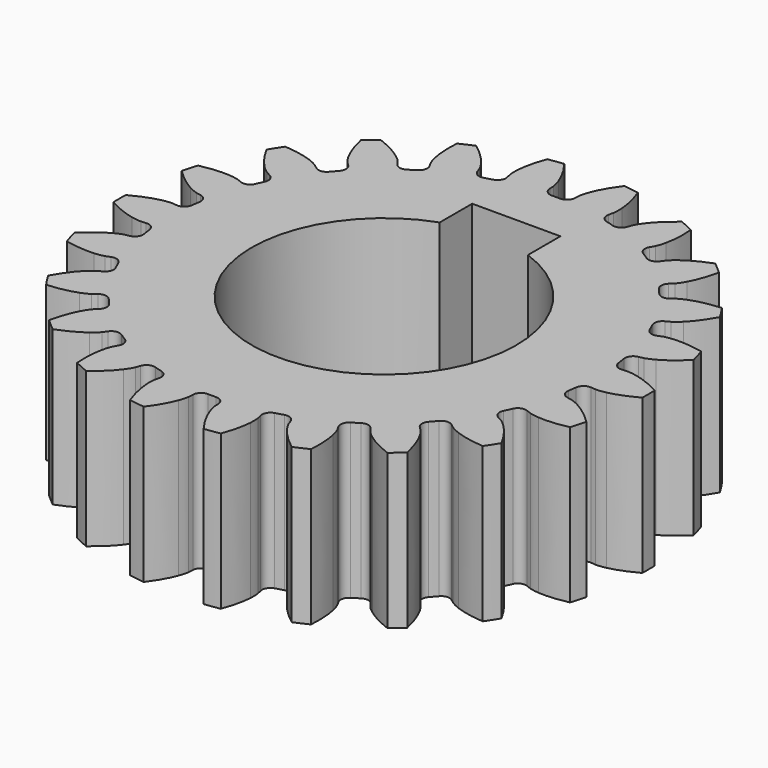
from build123d import *

# Parameters (mm, degrees)
PAD_DEPTH    = 7
POCKET_DEPTH = 7.001


with BuildPart() as part:
    # InvoluteGear → Pad (new body)
    with BuildSketch(Plane.XY):
        with BuildLine():
            Line((10.092297, -0.873177), (10.316634, -0.891835))
            add(Edge.make_bspline(
                [(10.316634, -0.891835), (10.365434, -0.893141), (10.512378, -0.891291), (10.757361, -0.838819)],
                knots=[0, 0, 0, 0, 1, 1, 1, 1], degree=3))
            add(Edge.make_bspline(
                [(10.757361, -0.838819), (11.050603, -0.775122), (11.473238, -0.639484), (11.995886, -0.352564)],
                knots=[0, 0, 0, 0, 1, 1, 1, 1], degree=3))
            ThreePointArc((11.995886, -0.352564), (12.000533, 0.000205), (11.994808, 0.352959))
            add(Edge.make_bspline(
                [(11.994808, 0.352959), (11.473238, 0.639484), (11.050603, 0.775122), (10.757361, 0.838819)],
                knots=[0, 0, 0, 0, 1, 1, 1, 1], degree=3))
            add(Edge.make_bspline(
                [(10.757361, 0.838819), (10.512378, 0.891291), (10.365434, 0.893141), (10.316634, 0.891835)],
                knots=[0, 0, 0, 0, 1, 1, 1, 1], degree=3))
            Line((10.316634, 0.891835), (10.092297, 0.873177))
            ThreePointArc((10.092297, 0.873177), (9.816263, 0.953396), (9.67538, 1.203959))
            ThreePointArc((9.67538, 1.203959), (9.650759, 1.38757), (9.622654, 1.570679))
            ThreePointArc((9.622654, 1.570679), (9.687238, 1.850784), (9.929491, 2.005522))
            Line((9.929491, 2.005522), (10.149997, 2.050822))
            add(Edge.make_bspline(
                [(10.149997, 2.050822), (10.197188, 2.063318), (10.337659, 2.106492), (10.557935, 2.225858)],
                knots=[0, 0, 0, 0, 1, 1, 1, 1], degree=3))
            add(Edge.make_bspline(
                [(10.557935, 2.225858), (10.821353, 2.369591), (11.188655, 2.618804), (11.609297, 3.041349)],
                knots=[0, 0, 0, 0, 1, 1, 1, 1], degree=3))
            ThreePointArc((11.609297, 3.041349), (11.514369, 3.381138), (11.409494, 3.71799))
            add(Edge.make_bspline(
                [(11.409494, 3.71799), (10.828328, 3.845965), (10.384599, 3.857039), (10.085289, 3.83554)],
                knots=[0, 0, 0, 0, 1, 1, 1, 1], degree=3))
            add(Edge.make_bspline(
                [(10.085289, 3.83554), (9.835447, 3.816867), (9.693934, 3.777242), (9.647479, 3.762241)],
                knots=[0, 0, 0, 0, 1, 1, 1, 1], degree=3))
            Line((9.647479, 3.762241), (9.437486, 3.681136))
            ThreePointArc((9.437486, 3.681136), (9.150033, 3.680337), (8.944265, 3.88106))
            ThreePointArc((8.944265, 3.88106), (8.868912, 4.050296), (8.790357, 4.218071))
            ThreePointArc((8.790357, 4.218071), (8.77341, 4.505025), (8.962256, 4.721745))
            Line((8.962256, 4.721745), (9.161067, 4.827334))
            add(Edge.make_bspline(
                [(9.161067, 4.827334), (9.202826, 4.852619), (9.325444, 4.933619), (9.503167, 5.110209)],
                knots=[0, 0, 0, 0, 1, 1, 1, 1], degree=3))
            add(Edge.make_bspline(
                [(9.503167, 5.110209), (9.715422, 5.322333), (9.997633, 5.664933), (10.282192, 6.188869)],
                knots=[0, 0, 0, 0, 1, 1, 1, 1], degree=3))
            ThreePointArc((10.282192, 6.188869), (10.09538, 6.488151), (9.89985, 6.781811))
            add(Edge.make_bspline(
                [(9.89985, 6.781811), (9.306171, 6.740869), (8.877297, 6.626481), (8.596168, 6.521528)],
                knots=[0, 0, 0, 0, 1, 1, 1, 1], degree=3))
            add(Edge.make_bspline(
                [(8.596168, 6.521528), (8.361707, 6.433222), (8.237089, 6.355334), (8.196742, 6.327853)],
                knots=[0, 0, 0, 0, 1, 1, 1, 1], degree=3))
            Line((8.196742, 6.327853), (8.018106, 6.190871))
            ThreePointArc((8.018106, 6.190871), (7.742521, 6.10912), (7.488538, 6.24374))
            ThreePointArc((7.488538, 6.24374), (7.368558, 6.384892), (7.245918, 6.523739))
            ThreePointArc((7.245918, 6.523739), (7.148813, 6.794295), (7.268952, 7.05544))
            Line((7.268952, 7.05544), (7.429962, 7.212764))
            add(Edge.make_bspline(
                [(7.429962, 7.212764), (7.462906, 7.248789), (7.557736, 7.361054), (7.67851, 7.580561)],
                knots=[0, 0, 0, 0, 1, 1, 1, 1], degree=3))
            add(Edge.make_bspline(
                [(7.67851, 7.580561), (7.822404, 7.843892), (7.996663, 8.252122), (8.122085, 8.835005)],
                knots=[0, 0, 0, 0, 1, 1, 1, 1], degree=3))
            ThreePointArc((8.122085, 8.835005), (7.858523, 9.069532), (7.58818, 9.29621))
            add(Edge.make_bspline(
                [(7.58818, 9.29621), (7.030084, 9.089668), (6.650808, 8.859086), (6.410636, 8.67918)],
                knots=[0, 0, 0, 0, 1, 1, 1, 1], degree=3))
            add(Edge.make_bspline(
                [(6.410636, 8.67918), (6.210551, 8.528397), (6.112925, 8.418555), (6.081954, 8.380819)],
                knots=[0, 0, 0, 0, 1, 1, 1, 1], degree=3))
            Line((6.081954, 8.380819), (5.949146, 8.199059))
            ThreePointArc((5.949146, 8.199059), (5.707757, 8.042978), (5.426135, 8.10059))
            ThreePointArc((5.426135, 8.10059), (5.271248, 8.202222), (5.114458, 8.300893))
            ThreePointArc((5.114458, 8.300893), (4.945062, 8.533132), (4.986761, 8.817546))
            Line((4.986761, 8.817546), (5.096926, 9.013859))
            add(Edge.make_bspline(
                [(5.096926, 9.013859), (5.118386, 9.057706), (5.177747, 9.19214), (5.231786, 9.436781)],
                knots=[0, 0, 0, 0, 1, 1, 1, 1], degree=3))
            add(Edge.make_bspline(
                [(5.231786, 9.436781), (5.295662, 9.729985), (5.347851, 10.170773), (5.303975, 10.765381)],
                knots=[0, 0, 0, 0, 1, 1, 1, 1], degree=3))
            ThreePointArc((5.303975, 10.765381), (4.985015, 10.916154), (4.66176, 11.057486))
            add(Edge.make_bspline(
                [(4.66176, 11.057486), (4.18446, 10.702076), (3.885511, 10.37398), (3.705752, 10.133697)],
                knots=[0, 0, 0, 0, 1, 1, 1, 1], degree=3))
            add(Edge.make_bspline(
                [(3.705752, 10.133697), (3.556253, 9.932651), (3.493527, 9.799754), (3.474443, 9.754822)],
                knots=[0, 0, 0, 0, 1, 1, 1, 1], degree=3))
            Line((3.474443, 9.754822), (3.398222, 9.543007))
            ThreePointArc((3.398222, 9.543007), (3.210584, 9.325242), (2.924138, 9.301178))
            ThreePointArc((2.924138, 9.301178), (2.746892, 9.355056), (2.568655, 9.405558))
            ThreePointArc((2.568655, 9.405558), (2.340691, 9.580665), (2.300573, 9.865306))
            Line((2.300573, 9.865306), (2.350967, 10.084704))
            add(Edge.make_bspline(
                [(2.350967, 10.084704), (2.359205, 10.132821), (2.378286, 10.278533), (2.361213, 10.52849)],
                knots=[0, 0, 0, 0, 1, 1, 1, 1], degree=3))
            add(Edge.make_bspline(
                [(2.361213, 10.52849), (2.339897, 10.827813), (2.265787, 11.265449), (2.056168, 11.82361)],
                knots=[0, 0, 0, 0, 1, 1, 1, 1], degree=3))
            ThreePointArc((2.056168, 11.82361), (1.707651, 11.878414), (1.357672, 11.92295))
            add(Edge.make_bspline(
                [(1.357672, 11.92295), (0.999837, 11.447465), (0.805433, 11.048435), (0.700651, 10.767243)],
                knots=[0, 0, 0, 0, 1, 1, 1, 1], degree=3))
            add(Edge.make_bspline(
                [(0.700651, 10.767243), (0.613848, 10.532221), (0.591105, 10.387036), (0.585453, 10.338547)],
                knots=[0, 0, 0, 0, 1, 1, 1, 1], degree=3))
            Line((0.585453, 10.338547), (0.571995, 10.113838))
            ThreePointArc((0.571995, 10.113838), (0.453308, 9.85203), (0.185246, 9.74824))
            ThreePointArc((0.185246, 9.74824), (0, 9.75), (-0.185246, 9.74824))
            ThreePointArc((-0.185246, 9.74824), (-0.453308, 9.85203), (-0.571995, 10.113838))
            Line((-0.571995, 10.113838), (-0.585453, 10.338547))
            add(Edge.make_bspline(
                [(-0.585453, 10.338547), (-0.591105, 10.387036), (-0.613848, 10.532221), (-0.700651, 10.767243)],
                knots=[0, 0, 0, 0, 1, 1, 1, 1], degree=3))
            add(Edge.make_bspline(
                [(-0.700651, 10.767243), (-0.805433, 11.048435), (-0.999837, 11.447465), (-1.358217, 11.92396)],
                knots=[0, 0, 0, 0, 1, 1, 1, 1], degree=3))
            ThreePointArc((-1.358217, 11.92396), (-1.708057, 11.878356), (-2.056406, 11.822487))
            add(Edge.make_bspline(
                [(-2.056406, 11.822487), (-2.265787, 11.265449), (-2.339897, 10.827813), (-2.361213, 10.52849)],
                knots=[0, 0, 0, 0, 1, 1, 1, 1], degree=3))
            add(Edge.make_bspline(
                [(-2.361213, 10.52849), (-2.378286, 10.278533), (-2.359205, 10.132821), (-2.350967, 10.084704)],
                knots=[0, 0, 0, 0, 1, 1, 1, 1], degree=3))
            Line((-2.350967, 10.084704), (-2.300573, 9.865306))
            ThreePointArc((-2.300573, 9.865306), (-2.340691, 9.580665), (-2.568655, 9.405558))
            ThreePointArc((-2.568655, 9.405558), (-2.746892, 9.355056), (-2.924138, 9.301178))
            ThreePointArc((-2.924138, 9.301178), (-3.210584, 9.325242), (-3.398222, 9.543007))
            Line((-3.398222, 9.543007), (-3.474443, 9.754822))
            add(Edge.make_bspline(
                [(-3.474443, 9.754822), (-3.493527, 9.799754), (-3.556253, 9.932651), (-3.705752, 10.133697)],
                knots=[0, 0, 0, 0, 1, 1, 1, 1], degree=3))
            add(Edge.make_bspline(
                [(-3.705752, 10.133697), (-3.885511, 10.37398), (-4.18446, 10.702076), (-4.662567, 11.058302)],
                knots=[0, 0, 0, 0, 1, 1, 1, 1], degree=3))
            ThreePointArc((-4.662567, 11.058302), (-4.985388, 10.915983), (-5.303886, 10.764237))
            add(Edge.make_bspline(
                [(-5.303886, 10.764237), (-5.347851, 10.170773), (-5.295662, 9.729985), (-5.231786, 9.436781)],
                knots=[0, 0, 0, 0, 1, 1, 1, 1], degree=3))
            add(Edge.make_bspline(
                [(-5.231786, 9.436781), (-5.177747, 9.19214), (-5.118386, 9.057706), (-5.096926, 9.013859)],
                knots=[0, 0, 0, 0, 1, 1, 1, 1], degree=3))
            Line((-5.096926, 9.013859), (-4.986761, 8.817546))
            ThreePointArc((-4.986761, 8.817546), (-4.945062, 8.533132), (-5.114458, 8.300893))
            ThreePointArc((-5.114458, 8.300893), (-5.271248, 8.202222), (-5.426135, 8.10059))
            ThreePointArc((-5.426135, 8.10059), (-5.707757, 8.042978), (-5.949146, 8.199059))
            Line((-5.949146, 8.199059), (-6.081954, 8.380819))
            add(Edge.make_bspline(
                [(-6.081954, 8.380819), (-6.112925, 8.418555), (-6.210551, 8.528397), (-6.410636, 8.67918)],
                knots=[0, 0, 0, 0, 1, 1, 1, 1], degree=3))
            add(Edge.make_bspline(
                [(-6.410636, 8.67918), (-6.650808, 8.859086), (-7.030084, 9.089668), (-7.589184, 9.296766)],
                knots=[0, 0, 0, 0, 1, 1, 1, 1], degree=3))
            ThreePointArc((-7.589184, 9.296766), (-7.858833, 9.069263), (-8.121678, 8.833932))
            add(Edge.make_bspline(
                [(-8.121678, 8.833932), (-7.996663, 8.252122), (-7.822404, 7.843892), (-7.67851, 7.580561)],
                knots=[0, 0, 0, 0, 1, 1, 1, 1], degree=3))
            add(Edge.make_bspline(
                [(-7.67851, 7.580561), (-7.557736, 7.361054), (-7.462906, 7.248789), (-7.429962, 7.212764)],
                knots=[0, 0, 0, 0, 1, 1, 1, 1], degree=3))
            Line((-7.429962, 7.212764), (-7.268952, 7.05544))
            ThreePointArc((-7.268952, 7.05544), (-7.148813, 6.794295), (-7.245918, 6.523739))
            ThreePointArc((-7.245918, 6.523739), (-7.368558, 6.384892), (-7.488538, 6.24374))
            ThreePointArc((-7.488538, 6.24374), (-7.742521, 6.10912), (-8.018106, 6.190871))
            Line((-8.018106, 6.190871), (-8.196742, 6.327853))
            add(Edge.make_bspline(
                [(-8.196742, 6.327853), (-8.237089, 6.355334), (-8.361707, 6.433222), (-8.596168, 6.521528)],
                knots=[0, 0, 0, 0, 1, 1, 1, 1], degree=3))
            add(Edge.make_bspline(
                [(-8.596168, 6.521528), (-8.877297, 6.626481), (-9.306171, 6.740869), (-9.900971, 6.782061)],
                knots=[0, 0, 0, 0, 1, 1, 1, 1], degree=3))
            ThreePointArc((-9.900971, 6.782061), (-10.095602, 6.487805), (-10.281499, 6.187955))
            add(Edge.make_bspline(
                [(-10.281499, 6.187955), (-9.997633, 5.664933), (-9.715422, 5.322333), (-9.503167, 5.110209)],
                knots=[0, 0, 0, 0, 1, 1, 1, 1], degree=3))
            add(Edge.make_bspline(
                [(-9.503167, 5.110209), (-9.325444, 4.933619), (-9.202826, 4.852619), (-9.161067, 4.827334)],
                knots=[0, 0, 0, 0, 1, 1, 1, 1], degree=3))
            Line((-9.161067, 4.827334), (-8.962256, 4.721745))
            ThreePointArc((-8.962256, 4.721745), (-8.77341, 4.505025), (-8.790357, 4.218071))
            ThreePointArc((-8.790357, 4.218071), (-8.868912, 4.050296), (-8.944265, 3.88106))
            ThreePointArc((-8.944265, 3.88106), (-9.150033, 3.680337), (-9.437486, 3.681136))
            Line((-9.437486, 3.681136), (-9.647479, 3.762241))
            add(Edge.make_bspline(
                [(-9.647479, 3.762241), (-9.693934, 3.777242), (-9.835447, 3.816867), (-10.085289, 3.83554)],
                knots=[0, 0, 0, 0, 1, 1, 1, 1], degree=3))
            add(Edge.make_bspline(
                [(-10.085289, 3.83554), (-10.384599, 3.857039), (-10.828328, 3.845965), (-11.410639, 3.717915)],
                knots=[0, 0, 0, 0, 1, 1, 1, 1], degree=3))
            ThreePointArc((-11.410639, 3.717915), (-11.514485, 3.380744), (-11.608374, 3.040666))
            add(Edge.make_bspline(
                [(-11.608374, 3.040666), (-11.188655, 2.618804), (-10.821353, 2.369591), (-10.557935, 2.225858)],
                knots=[0, 0, 0, 0, 1, 1, 1, 1], degree=3))
            add(Edge.make_bspline(
                [(-10.557935, 2.225858), (-10.337659, 2.106492), (-10.197188, 2.063318), (-10.149997, 2.050822)],
                knots=[0, 0, 0, 0, 1, 1, 1, 1], degree=3))
            Line((-10.149997, 2.050822), (-9.929491, 2.005522))
            ThreePointArc((-9.929491, 2.005522), (-9.687238, 1.850784), (-9.622654, 1.570679))
            ThreePointArc((-9.622654, 1.570679), (-9.650759, 1.38757), (-9.67538, 1.203959))
            ThreePointArc((-9.67538, 1.203959), (-9.816263, 0.953396), (-10.092297, 0.873177))
            Line((-10.092297, 0.873177), (-10.316634, 0.891835))
            add(Edge.make_bspline(
                [(-10.316634, 0.891835), (-10.365434, 0.893141), (-10.512378, 0.891291), (-10.757361, 0.838819)],
                knots=[0, 0, 0, 0, 1, 1, 1, 1], degree=3))
            add(Edge.make_bspline(
                [(-10.757361, 0.838819), (-11.050603, 0.775122), (-11.473238, 0.639484), (-11.995886, 0.352564)],
                knots=[0, 0, 0, 0, 1, 1, 1, 1], degree=3))
            ThreePointArc((-11.995886, 0.352564), (-12.000533, -0.000205), (-11.994808, -0.352959))
            add(Edge.make_bspline(
                [(-11.994808, -0.352959), (-11.473238, -0.639484), (-11.050603, -0.775122), (-10.757361, -0.838819)],
                knots=[0, 0, 0, 0, 1, 1, 1, 1], degree=3))
            add(Edge.make_bspline(
                [(-10.757361, -0.838819), (-10.512378, -0.891291), (-10.365434, -0.893141), (-10.316634, -0.891835)],
                knots=[0, 0, 0, 0, 1, 1, 1, 1], degree=3))
            Line((-10.316634, -0.891835), (-10.092297, -0.873177))
            ThreePointArc((-10.092297, -0.873177), (-9.816263, -0.953396), (-9.67538, -1.203959))
            ThreePointArc((-9.67538, -1.203959), (-9.650759, -1.38757), (-9.622654, -1.570679))
            ThreePointArc((-9.622654, -1.570679), (-9.687238, -1.850784), (-9.929491, -2.005522))
            Line((-9.929491, -2.005522), (-10.149997, -2.050822))
            add(Edge.make_bspline(
                [(-10.149997, -2.050822), (-10.197188, -2.063318), (-10.337659, -2.106492), (-10.557935, -2.225858)],
                knots=[0, 0, 0, 0, 1, 1, 1, 1], degree=3))
            add(Edge.make_bspline(
                [(-10.557935, -2.225858), (-10.821353, -2.369591), (-11.188655, -2.618804), (-11.609297, -3.041349)],
                knots=[0, 0, 0, 0, 1, 1, 1, 1], degree=3))
            ThreePointArc((-11.609297, -3.041349), (-11.514369, -3.381138), (-11.409494, -3.71799))
            add(Edge.make_bspline(
                [(-11.409494, -3.71799), (-10.828328, -3.845965), (-10.384599, -3.857039), (-10.085289, -3.83554)],
                knots=[0, 0, 0, 0, 1, 1, 1, 1], degree=3))
            add(Edge.make_bspline(
                [(-10.085289, -3.83554), (-9.835447, -3.816867), (-9.693934, -3.777242), (-9.647479, -3.762241)],
                knots=[0, 0, 0, 0, 1, 1, 1, 1], degree=3))
            Line((-9.647479, -3.762241), (-9.437486, -3.681136))
            ThreePointArc((-9.437486, -3.681136), (-9.150033, -3.680337), (-8.944265, -3.88106))
            ThreePointArc((-8.944265, -3.88106), (-8.868912, -4.050296), (-8.790357, -4.218071))
            ThreePointArc((-8.790357, -4.218071), (-8.77341, -4.505025), (-8.962256, -4.721745))
            Line((-8.962256, -4.721745), (-9.161067, -4.827334))
            add(Edge.make_bspline(
                [(-9.161067, -4.827334), (-9.202826, -4.852619), (-9.325444, -4.933619), (-9.503167, -5.110209)],
                knots=[0, 0, 0, 0, 1, 1, 1, 1], degree=3))
            add(Edge.make_bspline(
                [(-9.503167, -5.110209), (-9.715422, -5.322333), (-9.997633, -5.664933), (-10.282192, -6.188869)],
                knots=[0, 0, 0, 0, 1, 1, 1, 1], degree=3))
            ThreePointArc((-10.282192, -6.188869), (-10.09538, -6.488151), (-9.89985, -6.781811))
            add(Edge.make_bspline(
                [(-9.89985, -6.781811), (-9.306171, -6.740869), (-8.877297, -6.626481), (-8.596168, -6.521528)],
                knots=[0, 0, 0, 0, 1, 1, 1, 1], degree=3))
            add(Edge.make_bspline(
                [(-8.596168, -6.521528), (-8.361707, -6.433222), (-8.237089, -6.355334), (-8.196742, -6.327853)],
                knots=[0, 0, 0, 0, 1, 1, 1, 1], degree=3))
            Line((-8.196742, -6.327853), (-8.018106, -6.190871))
            ThreePointArc((-8.018106, -6.190871), (-7.742521, -6.10912), (-7.488538, -6.24374))
            ThreePointArc((-7.488538, -6.24374), (-7.368558, -6.384892), (-7.245918, -6.523739))
            ThreePointArc((-7.245918, -6.523739), (-7.148813, -6.794295), (-7.268952, -7.05544))
            Line((-7.268952, -7.05544), (-7.429962, -7.212764))
            add(Edge.make_bspline(
                [(-7.429962, -7.212764), (-7.462906, -7.248789), (-7.557736, -7.361054), (-7.67851, -7.580561)],
                knots=[0, 0, 0, 0, 1, 1, 1, 1], degree=3))
            add(Edge.make_bspline(
                [(-7.67851, -7.580561), (-7.822404, -7.843892), (-7.996663, -8.252122), (-8.122085, -8.835005)],
                knots=[0, 0, 0, 0, 1, 1, 1, 1], degree=3))
            ThreePointArc((-8.122085, -8.835005), (-7.858523, -9.069532), (-7.58818, -9.29621))
            add(Edge.make_bspline(
                [(-7.58818, -9.29621), (-7.030084, -9.089668), (-6.650808, -8.859086), (-6.410636, -8.67918)],
                knots=[0, 0, 0, 0, 1, 1, 1, 1], degree=3))
            add(Edge.make_bspline(
                [(-6.410636, -8.67918), (-6.210551, -8.528397), (-6.112925, -8.418555), (-6.081954, -8.380819)],
                knots=[0, 0, 0, 0, 1, 1, 1, 1], degree=3))
            Line((-6.081954, -8.380819), (-5.949146, -8.199059))
            ThreePointArc((-5.949146, -8.199059), (-5.707757, -8.042978), (-5.426135, -8.10059))
            ThreePointArc((-5.426135, -8.10059), (-5.271248, -8.202222), (-5.114458, -8.300893))
            ThreePointArc((-5.114458, -8.300893), (-4.945062, -8.533132), (-4.986761, -8.817546))
            Line((-4.986761, -8.817546), (-5.096926, -9.013859))
            add(Edge.make_bspline(
                [(-5.096926, -9.013859), (-5.118386, -9.057706), (-5.177747, -9.19214), (-5.231786, -9.436781)],
                knots=[0, 0, 0, 0, 1, 1, 1, 1], degree=3))
            add(Edge.make_bspline(
                [(-5.231786, -9.436781), (-5.295662, -9.729985), (-5.347851, -10.170773), (-5.303975, -10.765381)],
                knots=[0, 0, 0, 0, 1, 1, 1, 1], degree=3))
            ThreePointArc((-5.303975, -10.765381), (-4.985015, -10.916154), (-4.66176, -11.057486))
            add(Edge.make_bspline(
                [(-4.66176, -11.057486), (-4.18446, -10.702076), (-3.885511, -10.37398), (-3.705752, -10.133697)],
                knots=[0, 0, 0, 0, 1, 1, 1, 1], degree=3))
            add(Edge.make_bspline(
                [(-3.705752, -10.133697), (-3.556253, -9.932651), (-3.493527, -9.799754), (-3.474443, -9.754822)],
                knots=[0, 0, 0, 0, 1, 1, 1, 1], degree=3))
            Line((-3.474443, -9.754822), (-3.398222, -9.543007))
            ThreePointArc((-3.398222, -9.543007), (-3.210584, -9.325242), (-2.924138, -9.301178))
            ThreePointArc((-2.924138, -9.301178), (-2.746892, -9.355056), (-2.568655, -9.405558))
            ThreePointArc((-2.568655, -9.405558), (-2.340691, -9.580665), (-2.300573, -9.865306))
            Line((-2.300573, -9.865306), (-2.350967, -10.084704))
            add(Edge.make_bspline(
                [(-2.350967, -10.084704), (-2.359205, -10.132821), (-2.378286, -10.278533), (-2.361213, -10.52849)],
                knots=[0, 0, 0, 0, 1, 1, 1, 1], degree=3))
            add(Edge.make_bspline(
                [(-2.361213, -10.52849), (-2.339897, -10.827813), (-2.265787, -11.265449), (-2.056168, -11.82361)],
                knots=[0, 0, 0, 0, 1, 1, 1, 1], degree=3))
            ThreePointArc((-2.056168, -11.82361), (-1.707651, -11.878414), (-1.357672, -11.92295))
            add(Edge.make_bspline(
                [(-1.357672, -11.92295), (-0.999837, -11.447465), (-0.805433, -11.048435), (-0.700651, -10.767243)],
                knots=[0, 0, 0, 0, 1, 1, 1, 1], degree=3))
            add(Edge.make_bspline(
                [(-0.700651, -10.767243), (-0.613848, -10.532221), (-0.591105, -10.387036), (-0.585453, -10.338547)],
                knots=[0, 0, 0, 0, 1, 1, 1, 1], degree=3))
            Line((-0.585453, -10.338547), (-0.571995, -10.113838))
            ThreePointArc((-0.571995, -10.113838), (-0.453308, -9.85203), (-0.185246, -9.74824))
            ThreePointArc((-0.185246, -9.74824), (0, -9.75), (0.185246, -9.74824))
            ThreePointArc((0.185246, -9.74824), (0.453308, -9.85203), (0.571995, -10.113838))
            Line((0.571995, -10.113838), (0.585453, -10.338547))
            add(Edge.make_bspline(
                [(0.585453, -10.338547), (0.591105, -10.387036), (0.613848, -10.532221), (0.700651, -10.767243)],
                knots=[0, 0, 0, 0, 1, 1, 1, 1], degree=3))
            add(Edge.make_bspline(
                [(0.700651, -10.767243), (0.805433, -11.048435), (0.999837, -11.447465), (1.358217, -11.92396)],
                knots=[0, 0, 0, 0, 1, 1, 1, 1], degree=3))
            ThreePointArc((1.358217, -11.92396), (1.708057, -11.878356), (2.056406, -11.822487))
            add(Edge.make_bspline(
                [(2.056406, -11.822487), (2.265787, -11.265449), (2.339897, -10.827813), (2.361213, -10.52849)],
                knots=[0, 0, 0, 0, 1, 1, 1, 1], degree=3))
            add(Edge.make_bspline(
                [(2.361213, -10.52849), (2.378286, -10.278533), (2.359205, -10.132821), (2.350967, -10.084704)],
                knots=[0, 0, 0, 0, 1, 1, 1, 1], degree=3))
            Line((2.350967, -10.084704), (2.300573, -9.865306))
            ThreePointArc((2.300573, -9.865306), (2.340691, -9.580665), (2.568655, -9.405558))
            ThreePointArc((2.568655, -9.405558), (2.746892, -9.355056), (2.924138, -9.301178))
            ThreePointArc((2.924138, -9.301178), (3.210584, -9.325242), (3.398222, -9.543007))
            Line((3.398222, -9.543007), (3.474443, -9.754822))
            add(Edge.make_bspline(
                [(3.474443, -9.754822), (3.493527, -9.799754), (3.556253, -9.932651), (3.705752, -10.133697)],
                knots=[0, 0, 0, 0, 1, 1, 1, 1], degree=3))
            add(Edge.make_bspline(
                [(3.705752, -10.133697), (3.885511, -10.37398), (4.18446, -10.702076), (4.662567, -11.058302)],
                knots=[0, 0, 0, 0, 1, 1, 1, 1], degree=3))
            ThreePointArc((4.662567, -11.058302), (4.985388, -10.915983), (5.303886, -10.764237))
            add(Edge.make_bspline(
                [(5.303886, -10.764237), (5.347851, -10.170773), (5.295662, -9.729985), (5.231786, -9.436781)],
                knots=[0, 0, 0, 0, 1, 1, 1, 1], degree=3))
            add(Edge.make_bspline(
                [(5.231786, -9.436781), (5.177747, -9.19214), (5.118386, -9.057706), (5.096926, -9.013859)],
                knots=[0, 0, 0, 0, 1, 1, 1, 1], degree=3))
            Line((5.096926, -9.013859), (4.986761, -8.817546))
            ThreePointArc((4.986761, -8.817546), (4.945062, -8.533132), (5.114458, -8.300893))
            ThreePointArc((5.114458, -8.300893), (5.271248, -8.202222), (5.426135, -8.10059))
            ThreePointArc((5.426135, -8.10059), (5.707757, -8.042978), (5.949146, -8.199059))
            Line((5.949146, -8.199059), (6.081954, -8.380819))
            add(Edge.make_bspline(
                [(6.081954, -8.380819), (6.112925, -8.418555), (6.210551, -8.528397), (6.410636, -8.67918)],
                knots=[0, 0, 0, 0, 1, 1, 1, 1], degree=3))
            add(Edge.make_bspline(
                [(6.410636, -8.67918), (6.650808, -8.859086), (7.030084, -9.089668), (7.589184, -9.296766)],
                knots=[0, 0, 0, 0, 1, 1, 1, 1], degree=3))
            ThreePointArc((7.589184, -9.296766), (7.858833, -9.069263), (8.121678, -8.833932))
            add(Edge.make_bspline(
                [(8.121678, -8.833932), (7.996663, -8.252122), (7.822404, -7.843892), (7.67851, -7.580561)],
                knots=[0, 0, 0, 0, 1, 1, 1, 1], degree=3))
            add(Edge.make_bspline(
                [(7.67851, -7.580561), (7.557736, -7.361054), (7.462906, -7.248789), (7.429962, -7.212764)],
                knots=[0, 0, 0, 0, 1, 1, 1, 1], degree=3))
            Line((7.429962, -7.212764), (7.268952, -7.05544))
            ThreePointArc((7.268952, -7.05544), (7.148813, -6.794295), (7.245918, -6.523739))
            ThreePointArc((7.245918, -6.523739), (7.368558, -6.384892), (7.488538, -6.24374))
            ThreePointArc((7.488538, -6.24374), (7.742521, -6.10912), (8.018106, -6.190871))
            Line((8.018106, -6.190871), (8.196742, -6.327853))
            add(Edge.make_bspline(
                [(8.196742, -6.327853), (8.237089, -6.355334), (8.361707, -6.433222), (8.596168, -6.521528)],
                knots=[0, 0, 0, 0, 1, 1, 1, 1], degree=3))
            add(Edge.make_bspline(
                [(8.596168, -6.521528), (8.877297, -6.626481), (9.306171, -6.740869), (9.900971, -6.782061)],
                knots=[0, 0, 0, 0, 1, 1, 1, 1], degree=3))
            ThreePointArc((9.900971, -6.782061), (10.095602, -6.487805), (10.281499, -6.187955))
            add(Edge.make_bspline(
                [(10.281499, -6.187955), (9.997633, -5.664933), (9.715422, -5.322333), (9.503167, -5.110209)],
                knots=[0, 0, 0, 0, 1, 1, 1, 1], degree=3))
            add(Edge.make_bspline(
                [(9.503167, -5.110209), (9.325444, -4.933619), (9.202826, -4.852619), (9.161067, -4.827334)],
                knots=[0, 0, 0, 0, 1, 1, 1, 1], degree=3))
            Line((9.161067, -4.827334), (8.962256, -4.721745))
            ThreePointArc((8.962256, -4.721745), (8.77341, -4.505025), (8.790357, -4.218071))
            ThreePointArc((8.790357, -4.218071), (8.868912, -4.050296), (8.944265, -3.88106))
            ThreePointArc((8.944265, -3.88106), (9.150033, -3.680337), (9.437486, -3.681136))
            Line((9.437486, -3.681136), (9.647479, -3.762241))
            add(Edge.make_bspline(
                [(9.647479, -3.762241), (9.693934, -3.777242), (9.835447, -3.816867), (10.085289, -3.83554)],
                knots=[0, 0, 0, 0, 1, 1, 1, 1], degree=3))
            add(Edge.make_bspline(
                [(10.085289, -3.83554), (10.384599, -3.857039), (10.828328, -3.845965), (11.410639, -3.717915)],
                knots=[0, 0, 0, 0, 1, 1, 1, 1], degree=3))
            ThreePointArc((11.410639, -3.717915), (11.514485, -3.380744), (11.608374, -3.040666))
            add(Edge.make_bspline(
                [(11.608374, -3.040666), (11.188655, -2.618804), (10.821353, -2.369591), (10.557935, -2.225858)],
                knots=[0, 0, 0, 0, 1, 1, 1, 1], degree=3))
            add(Edge.make_bspline(
                [(10.557935, -2.225858), (10.337659, -2.106492), (10.197188, -2.063318), (10.149997, -2.050822)],
                knots=[0, 0, 0, 0, 1, 1, 1, 1], degree=3))
            Line((10.149997, -2.050822), (9.929491, -2.005522))
            ThreePointArc((9.929491, -2.005522), (9.687238, -1.850784), (9.622654, -1.570679))
            ThreePointArc((9.622654, -1.570679), (9.650759, -1.38757), (9.67538, -1.203959))
            ThreePointArc((9.67538, -1.203959), (9.816263, -0.953396), (10.092297, -0.873177))
        make_face()
    extrude(amount=PAD_DEPTH)

    # Sketch001 → Pocket (cut, through all)
    with BuildSketch(Plane.XY.offset(7)):
        with BuildLine():
            ThreePointArc((-2, 5.656854), (0, -6), (2, 5.656854))
            Line((2, 7.5), (2, 5.656854))
            Line((-2, 7.5), (2, 7.5))
            Line((-2, 7.5), (-2, 5.656854))
        make_face()
    extrude(amount=-POCKET_DEPTH, mode=Mode.SUBTRACT)


solid = part.part
